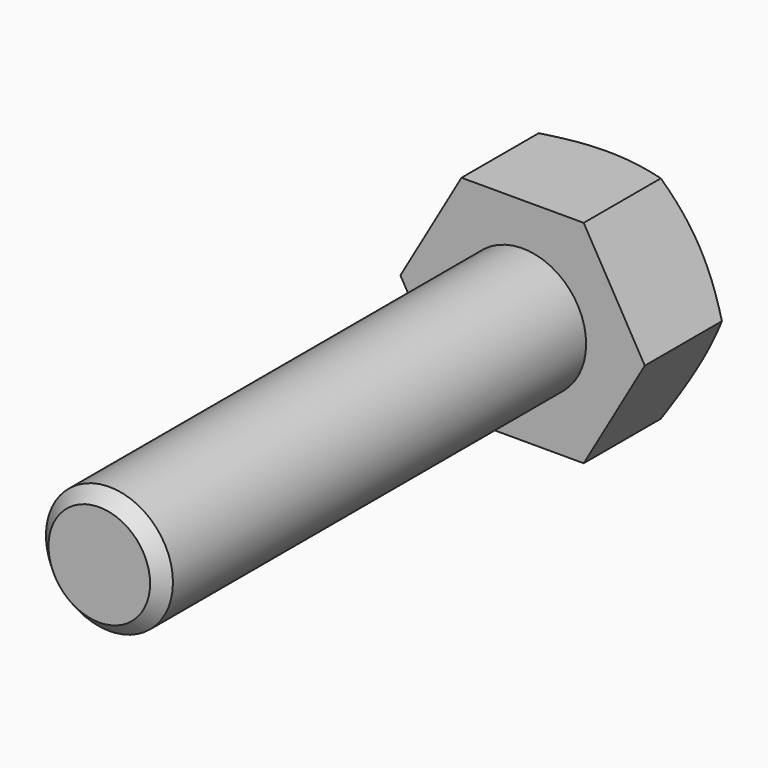
from build123d import *

# Parameters (mm, degrees)
F1_DEPTH = 5
F2_R     = 3
F3_DEPTH = 25
F4_SIZE  = 0.6


with BuildPart() as f1:
    # F0 (on Front) → F1 (new body)
    with BuildSketch(Plane.XZ):
        Polygon((2.886751, -5), (5.773503, 0), (2.886751, 5), (-2.886751, 5), (-5.773503, 0), (-2.886751, -5), align=None)
    extrude(amount=F1_DEPTH)

    # F2 (on face) → F3 (join)
    with BuildSketch(Plane.XZ.offset(5)):
        Circle(F2_R)
    extrude(amount=F3_DEPTH)

    # F4
    f4_edges = [f1.edges().sort_by_distance(p)[0] for p in [
        (-3, -30, 0),
    ]]
    chamfer(f4_edges, length=F4_SIZE)

    # F5 (on Right) → F6 (revolve, cut)
    with BuildSketch(Plane.YZ):
        Polygon((2, -1.535898), (-2, -8.464102), (2, -8.464102), align=None)
    revolve(axis=Axis((0, -5, 0), (0, 1, 0)), mode=Mode.SUBTRACT)


solid = f1.part
